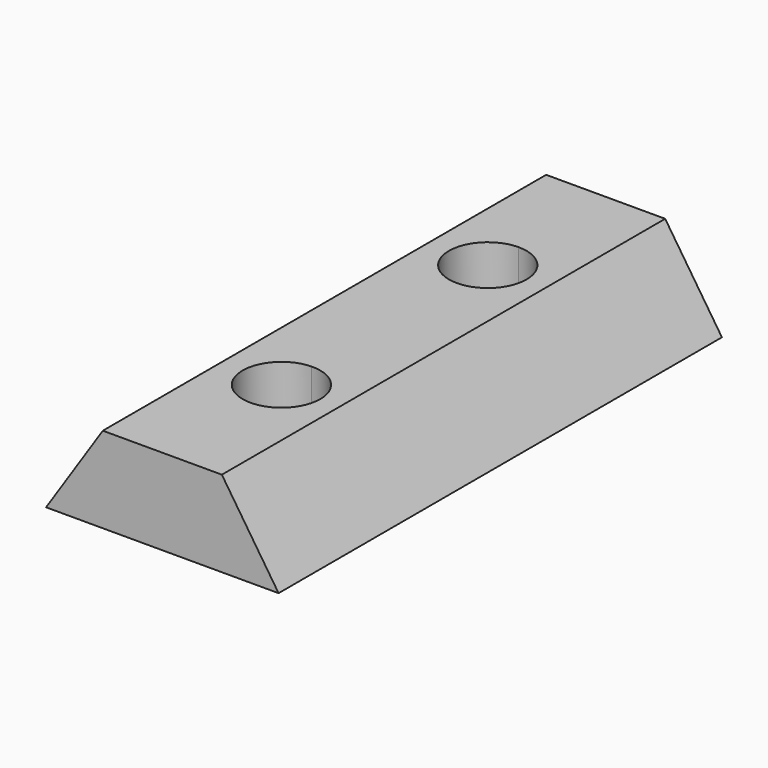
from build123d import *

# Parameters (mm, degrees)
F1_DEPTH = 30
F3_DEPTH = 4.651


with BuildPart() as f1:
    # F0 (on Front) → F1 (new body)
    with BuildSketch(Plane.XZ):
        Polygon((-9.515584, 4.65), (-12.586752, 0), (0, 0), (-3.071168, 4.65), align=None)
    extrude(amount=F1_DEPTH)

    # F2 (on face) → F3 (cut, through all)
    with BuildSketch(Plane.XY.offset(4.65)):
        with BuildLine():
            ThreePointArc((-6.293376, -10.099931), (-4.797433, -9.490945), (-4.176312, -8))
            ThreePointArc((-4.176312, -8), (-4.797433, -6.509055), (-6.293376, -5.900069))
            Line((-6.293376, -5.900069), (-6.293376, -10.099931))
        make_face()
        with BuildLine():
            Line((-6.293376, -10.099931), (-6.293376, -5.900069))
            ThreePointArc((-6.293376, -5.900069), (-8.376312, -8), (-6.293376, -10.099931))
        make_face()
        with BuildLine():
            ThreePointArc((-4.145002, -22), (-4.77728, -20.49807), (-6.293376, -19.900557))
            Line((-6.293376, -19.900557), (-6.293376, -24.099443))
            ThreePointArc((-6.293376, -24.099443), (-4.77728, -23.50193), (-4.145002, -22))
        make_face()
        with BuildLine():
            Line((-6.293376, -24.099443), (-6.293376, -19.900557))
            ThreePointArc((-6.293376, -19.900557), (-8.345002, -22), (-6.293376, -24.099443))
        make_face()
    extrude(amount=-F3_DEPTH, mode=Mode.SUBTRACT)


solid = f1.part
